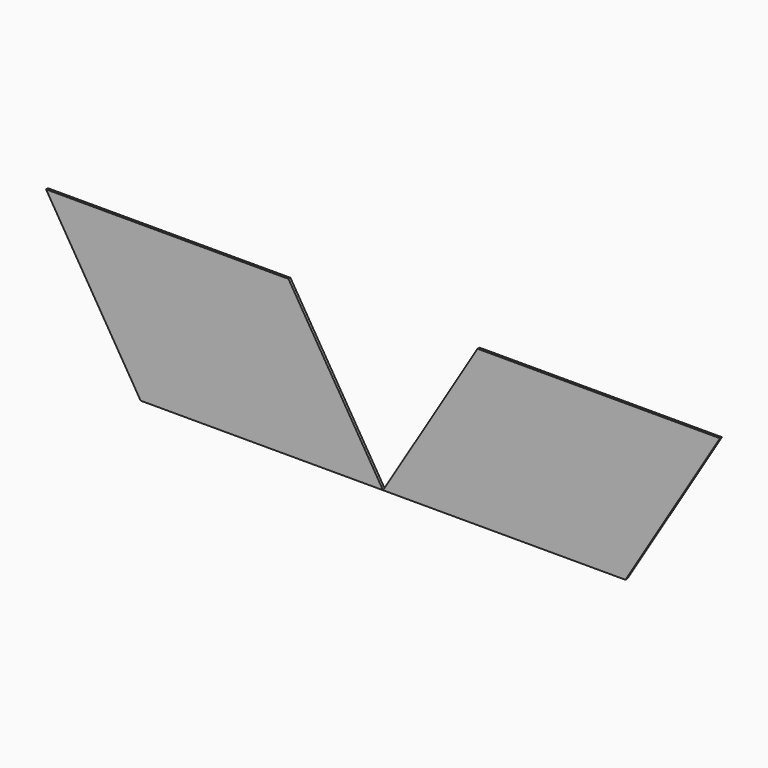
from build123d import *

# Parameters (mm, degrees)
F1_DEPTH = 0.508


with BuildPart() as f1:
    # F0 (on Front) → F1 (new body)
    with BuildSketch(Plane.XZ):
        Polygon((-50.8, 0), (-19.80955, 0), (-19.80955, 32.545226), (-70.60955, 32.545226), align=None)
        Polygon((-19.80955, 0), (0, 0), (-19.80955, 32.545226), align=None)
        Polygon((19.80955, 32.545226), (0, 0), (19.80955, 0), align=None)
        Polygon((19.80955, 32.545226), (19.80955, 0), (50.8, 0), (70.60955, 32.545226), align=None)
    extrude(amount=F1_DEPTH)


solid = f1.part
